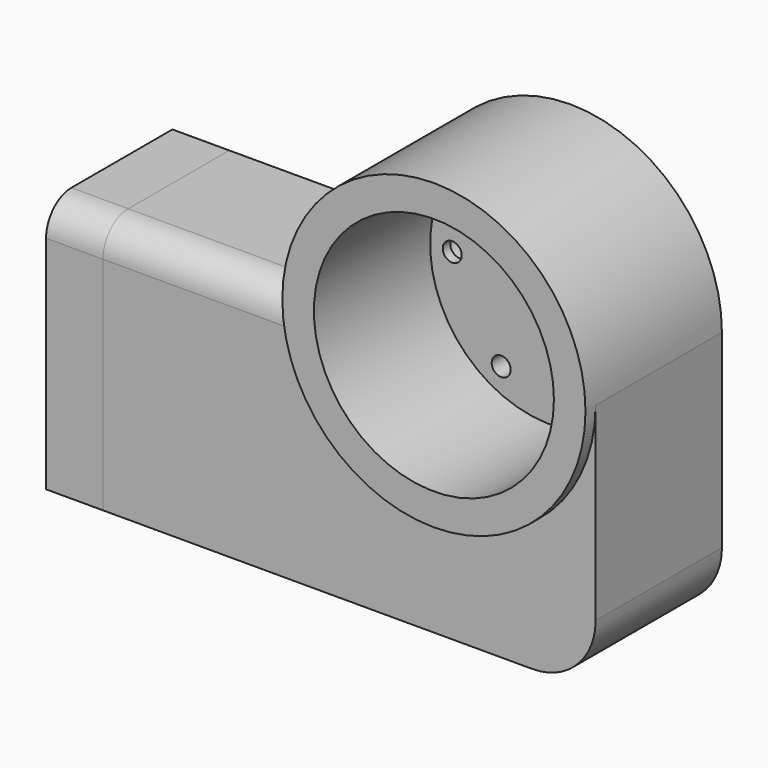
from build123d import *

# Parameters (mm, degrees)
F0_R      = 19
F0_R_2    = 1.5
F0_R_3    = 6.1
F1_DEPTH  = 4
F2_R      = 24
F2_R_2    = 19
F3_DEPTH  = 27
F5_DEPTH  = 25
F6_R      = 2.65
F7_DEPTH  = 2.5
F8_W      = 25
F8_H      = 40
F9_DEPTH  = 30
F10_R     = 5
F11_R     = 10
F13_DEPTH = 19
F14_R     = 3.5
F15_DEPTH = 9


with BuildPart() as f1:
    # F0 (on Front) → F1 (new body)
    with BuildSketch(Plane.XZ):
        Circle(F0_R)
        with Locations((-7.75, -13.4233937587)):
            Circle(F0_R_2, mode=Mode.SUBTRACT)
        with Locations((7.75, -13.4233937587)):
            Circle(F0_R_2, mode=Mode.SUBTRACT)
        with Locations((-15.5, 0)):
            Circle(F0_R_2, mode=Mode.SUBTRACT)
        with Locations((-7.75, 13.4233937587)):
            Circle(F0_R_2, mode=Mode.SUBTRACT)
        with Locations((0, 7.1)):
            Circle(F0_R_3, mode=Mode.SUBTRACT)
        with BuildLine():
            ThreePointArc((14, 0), (15.5, 1.5), (17, 0))
            ThreePointArc((17, 0), (15.5, -1.5), (14, 0))
        make_face(mode=Mode.SUBTRACT)
        with Locations((7.75, 13.4233937587)):
            Circle(F0_R_2, mode=Mode.SUBTRACT)
    extrude(amount=F1_DEPTH)

    # F2 (on Front) → F3 (join)
    with BuildSketch(Plane.XZ):
        Circle(F2_R)
        Circle(F2_R_2, mode=Mode.SUBTRACT)
    extrude(amount=F3_DEPTH)

    # F4 (on face) → F5 (join)
    with BuildSketch(Plane(origin=(0, 0, 0), x_dir=(-1, 0, 0), z_dir=(0, 1, 0))):
        with BuildLine():
            Line((24, -40), (24, 0))
            ThreePointArc((24, 0), (0, -24), (-24, 0))
            Line((-24, 0), (-24, -40))
            Line((-24, -40), (0, -40))
            Line((0, -40), (24, -40))
        make_face()
    extrude(amount=-F5_DEPTH)

    # F6 (on face) → F7 (cut)
    with BuildSketch(Plane(origin=(0, 0, 0), x_dir=(-1, 0, 0), z_dir=(0, 1, 0))):
        with Locations((-7.75, 13.4233937587)):
            Circle(F6_R)
        with Locations((7.75, 13.4233937587)):
            Circle(F6_R)
        with Locations((-15.5, 0)):
            Circle(F6_R)
        with Locations((15.5, 0)):
            Circle(F6_R)
    extrude(amount=-F7_DEPTH, mode=Mode.SUBTRACT)

    # F8 (on face) → F9 (join)
    with BuildSketch(Plane(origin=(-24, 0, 0), x_dir=(0, -1, 0), z_dir=(-1, 0, 0))):
        with Locations((12.5, -20)):
            Rectangle(F8_W, F8_H)
    extrude(amount=F9_DEPTH)

    # F10
    f10_edges = [f1.edges().sort_by_distance(p)[0] for p in [
        (-39, -25, 0),
    ]]
    fillet(f10_edges, radius=F10_R)

    # F11
    f11_edges = [f1.edges().sort_by_distance(p)[0] for p in [
        (24, -12.5, -40),
    ]]
    fillet(f11_edges, radius=F11_R)

    # F12 (on face) → F13 (cut)
    with BuildSketch(Plane(origin=(-54, 0, 0), x_dir=(0, -1, 0), z_dir=(-1, 0, 0))):
        with BuildLine():
            ThreePointArc((14.5, -25), (12.5, -27), (14.5, -29))
            Line((14.5, -29), (14.5, -27))
            Line((14.5, -27), (14.5, -25))
        make_face()
        with BuildLine():
            ThreePointArc((14.5, -11), (12.5, -13), (14.5, -15))
            Line((14.5, -15), (14.5, -13))
            Line((14.5, -13), (14.5, -11))
        make_face()
        with BuildLine():
            Line((14.5, -13), (14.5, -15))
            ThreePointArc((14.5, -15), (15.9142135624, -14.4142135624), (16.5, -13))
            ThreePointArc((16.5, -13), (15.9142135624, -11.5857864376), (14.5, -11))
            Line((14.5, -11), (14.5, -13))
        make_face()
        with BuildLine():
            Line((14.5, -27), (14.5, -29))
            ThreePointArc((14.5, -29), (15.9142135624, -28.4142135624), (16.5, -27))
            ThreePointArc((16.5, -27), (15.9142135624, -25.5857864376), (14.5, -25))
            Line((14.5, -25), (14.5, -27))
        make_face()
    extrude(amount=-F13_DEPTH, mode=Mode.SUBTRACT)


with BuildPart() as f15:
    # F14 (on face) → F15 (new body)
    with BuildSketch(Plane(origin=(-54, 0, 0), x_dir=(0, -1, 0), z_dir=(-1, 0, 0))):
        with BuildLine():
            Line((20, 0), (0, 0))
            Line((0, 0), (0, -40))
            Line((0, -40), (25, -40))
            Line((25, -40), (25, -5))
            ThreePointArc((25, -5), (23.5355339059, -1.4644660941), (20, 0))
        make_face()
        with Locations((14.5, -27)):
            Circle(F14_R, mode=Mode.SUBTRACT)
        with Locations((14.5, -13)):
            Circle(F14_R, mode=Mode.SUBTRACT)
    extrude(amount=F15_DEPTH)


solid = Compound([f1.part, f15.part])
